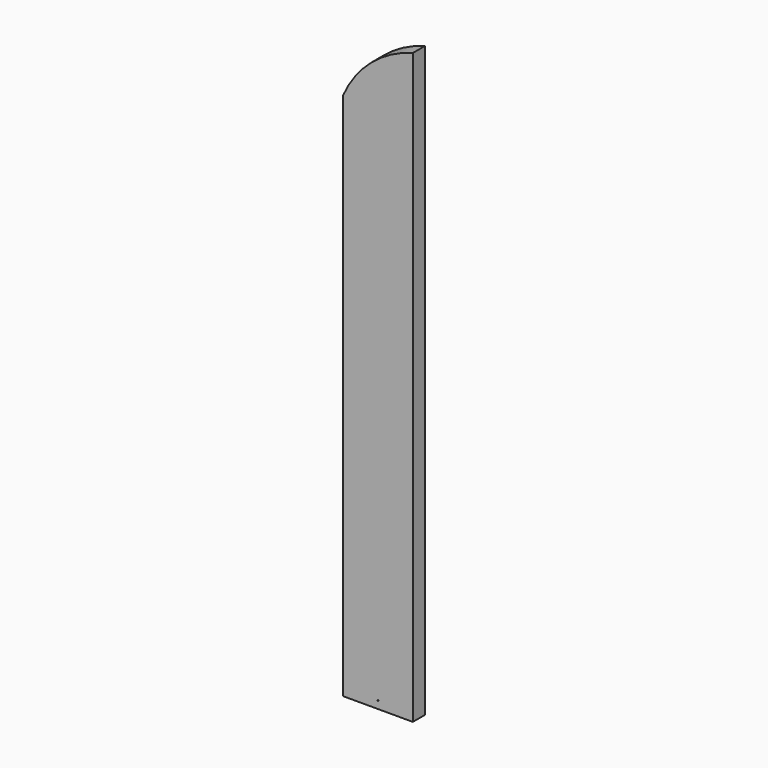
from build123d import *

# Parameters (mm, degrees)
F1_DEPTH = 19.05
F2_R     = 0.635
F3_DEPTH = 19.051


with BuildPart() as f1:
    # F0 (on Front) → F1 (new body)
    with BuildSketch(Plane.XZ):
        with BuildLine():
            Line((-44.45, 300.0375), (-44.45, -376.2375))
            Line((-44.45, -376.2375), (44.45, -376.2375))
            Line((44.45, -376.2375), (44.45, 376.2375))
            ThreePointArc((44.45, 376.2375), (-8.618722, 348.192676), (-44.45, 300.0375))
        make_face()
    extrude(amount=F1_DEPTH)

    # F2 (on face) → F3 (cut, through all)
    with BuildSketch(Plane.XZ.offset(19.05)):
        with Locations((0, -366.7125)):
            Circle(F2_R)
    extrude(amount=-F3_DEPTH, mode=Mode.SUBTRACT)


solid = f1.part
